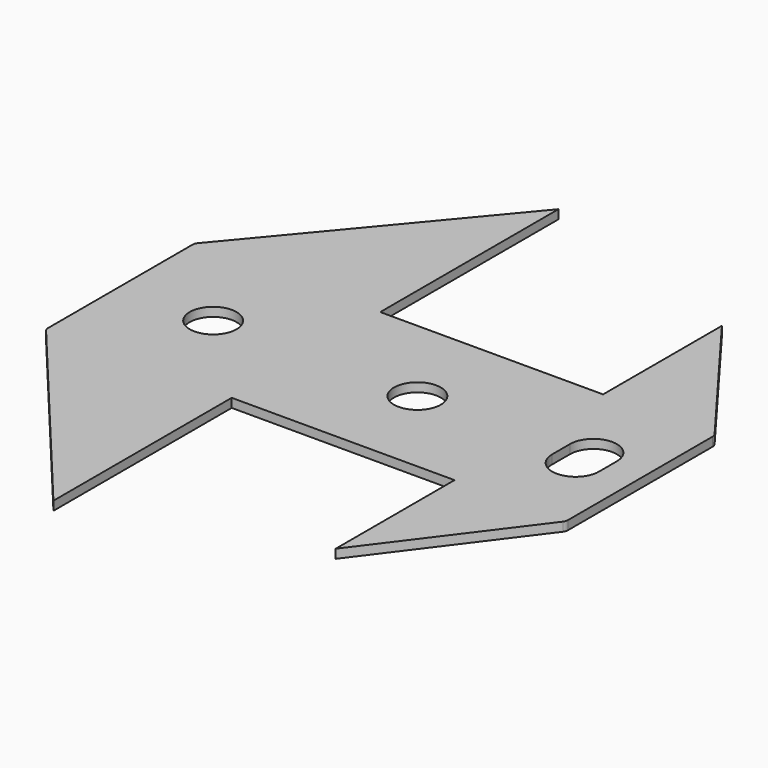
from build123d import *

# Parameters (mm, degrees)
F0_R     = 3.15
F1_DEPTH = 1.2
F2_R     = 1


with BuildPart() as f1:
    # F0 (on Top) → F1 (new body)
    with BuildSketch(Plane.XY):
        Polygon((0, 25), (0, 0), (25, 0), (55, 0), (70, 0), (70, 25), (55, 25), (25, 25), align=None)
        with Locations((12.5, 12.5)):
            Circle(F0_R, mode=Mode.SUBTRACT)
        with Locations((40, 12.5)):
            Circle(F0_R, mode=Mode.SUBTRACT)
        with BuildLine():
            ThreePointArc((65.65, 11), (62.5, 7.85), (59.35, 11))
            Line((59.35, 11), (59.35, 14))
            ThreePointArc((59.35, 14), (62.5, 17.15), (65.65, 14))
            Line((65.65, 14), (65.65, 11))
        make_face(mode=Mode.SUBTRACT)
        Polygon((25, 0), (0, 0), (25, -30), align=None)
        Polygon((25, 55), (0, 25), (25, 25), align=None)
        Polygon((70, 0), (55, 0), (55, -20), align=None)
        Polygon((55, 45), (55, 25), (70, 25), align=None)
    extrude(amount=F1_DEPTH)

    # F2
    f2_edges = [f1.edges().sort_by_distance(p)[0] for p in [
        (0, 25, 0.6),
        (0, 0, 0.6),
        (70, 0, 0.6),
        (70, 25, 0.6),
    ]]
    fillet(f2_edges, radius=F2_R)


solid = f1.part
